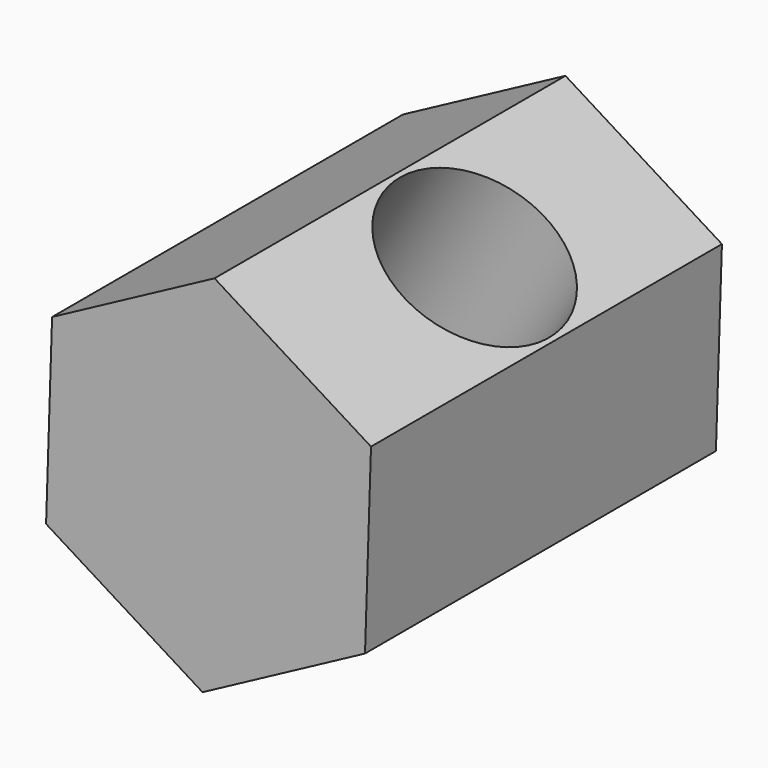
from build123d import *

# Parameters (mm, degrees)
F1_DEPTH = 25
F3_D     = 10


with BuildPart() as f1:
    # F0 (on Front) → F1 (new body)
    with BuildSketch(Plane.XZ):
        Polygon((8.91746, -5.543366), (9.259426, 4.951064), (0.341966, 10.49443), (-8.91746, 5.543366), (-9.259426, -4.951064), (-0.341966, -10.49443), align=None)
    extrude(amount=F1_DEPTH)

    # F3 (through all)
    with Locations(Plane(origin=(4.800696, 0, 7.722747), x_dir=(0.849282, 0, -0.52794), z_dir=(0.52794, 0, 0.849282))):
        with Locations((0, -12.044718)):
            Hole(F3_D / 2)


solid = f1.part
